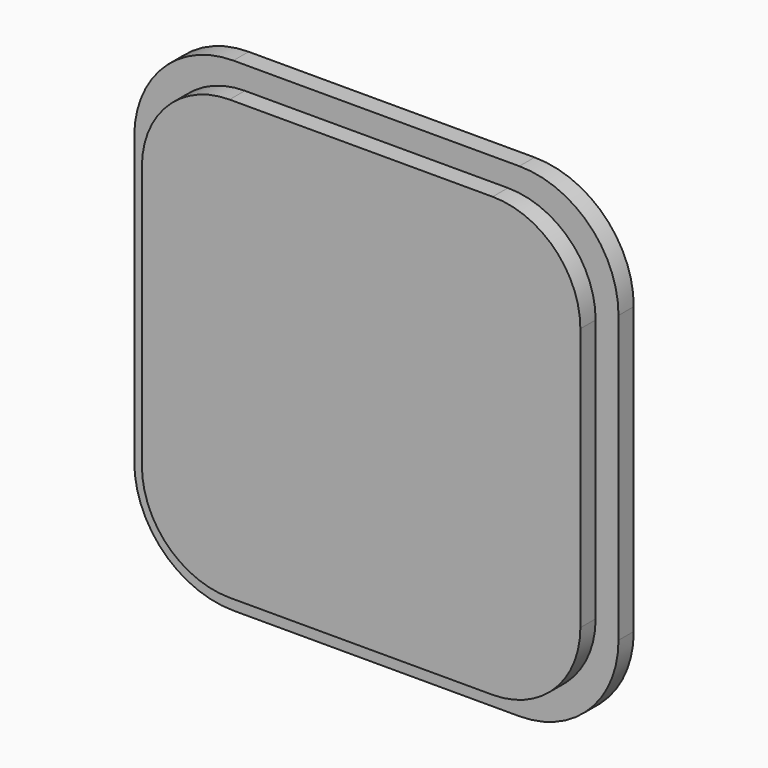
from build123d import *

# Parameters (mm, degrees)
BOX003_W     = 115
BOX003_H     = 5
BOX003_DEPTH = 115
FILLET003_R  = 23
BOX002_W     = 127
BOX002_H     = 5
BOX002_DEPTH = 127
FILLET002_R  = 26


with BuildPart() as inside001:
    # Box003 → Box003 (new body)
    with BuildSketch(Plane(origin=(-57.5, 20, -57.5), x_dir=(1, 0, 0), z_dir=(0, 0, 1))):
        with Locations((57.5, 2.5)):
            Rectangle(BOX003_W, BOX003_H)
    extrude(amount=BOX003_DEPTH)

    # Fillet003
    fillet003_edges = [inside001.edges().sort_by_distance(p)[0] for p in [
        (-57.5, 22.5, 57.5),
        (-57.5, 22.5, -57.5),
        (57.5, 22.5, 57.5),
        (57.5, 22.5, -57.5),
    ]]
    fillet(fillet003_edges, radius=FILLET003_R)


with BuildPart() as cover:
    # Box002 → Box002 (new body)
    with BuildSketch(Plane(origin=(-63.5, 25, -63.5), x_dir=(1, 0, 0), z_dir=(0, 0, 1))):
        with Locations((63.5, 2.5)):
            Rectangle(BOX002_W, BOX002_H)
    extrude(amount=BOX002_DEPTH)

    # Fillet002
    fillet002_edges = [cover.edges().sort_by_distance(p)[0] for p in [
        (-63.5, 27.5, 63.5),
        (-63.5, 27.5, -63.5),
        (63.5, 27.5, 63.5),
        (63.5, 27.5, -63.5),
    ]]
    fillet(fillet002_edges, radius=FILLET002_R)

    # Fusion: union Inside001
    add(inside001.part)


with BuildPart() as cover_1:
    # Fusion placement: moved
    add(cover.part.moved(Location((0, 18, 0))))


solid = cover_1.part
